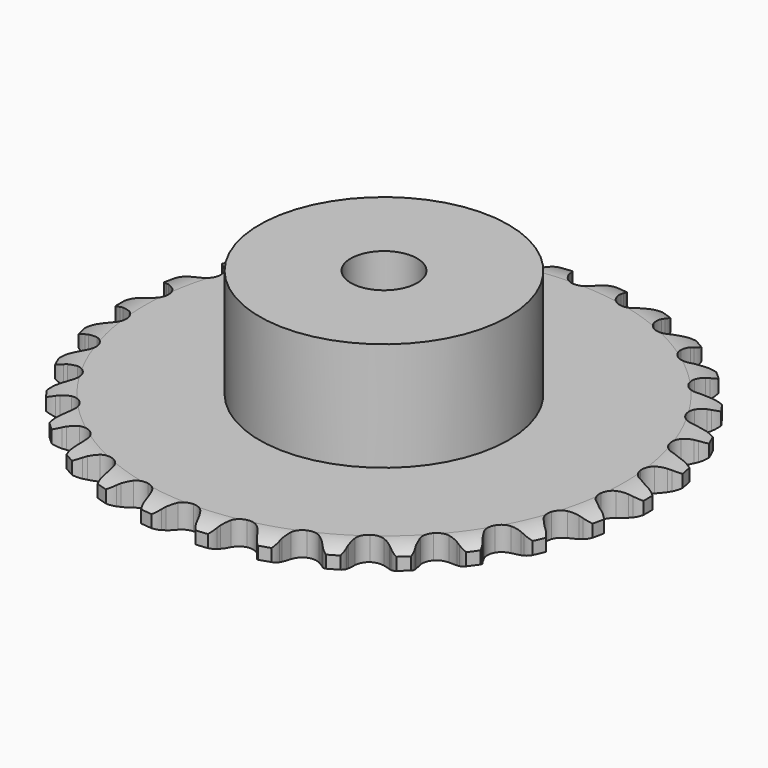
from build123d import *

# Parameters (mm, degrees)
PAD_DEPTH         = 2.9
SKETCH001_R       = 15
PAD001_DEPTH      = 16
SKETCH002_R       = 4
POCKET_DEPTH      = 0.001
POCKET_DEPTH_BACK = 16.001


with BuildPart() as part:
    # Sprocket → Pad (new body)
    with BuildSketch(Plane.XY):
        with BuildLine():
            ThreePointArc((-3.391675, 32.269632), (-2.614696, 31.675396), (-2.104457, 30.840849))
            Line((-2.104457, 30.840849), (-1.943539, 30.41871))
            ThreePointArc((-1.943539, 30.41871), (-1.686703, 29.865404), (-1.354765, 29.353613))
            ThreePointArc((-1.354765, 29.353613), (-0.756908, 28.85638), (0, 28.678152))
            ThreePointArc((0, 28.678152), (0.756908, 28.85638), (1.354765, 29.353613))
            ThreePointArc((1.354765, 29.353613), (1.686703, 29.865404), (1.943539, 30.41871))
            Line((1.943539, 30.41871), (2.104457, 30.840849))
            ThreePointArc((2.104457, 30.840849), (2.614696, 31.675396), (3.391675, 32.269632))
            ThreePointArc((3.391675, 32.269632), (4.028126, 31.526838), (4.353703, 30.604443))
            Line((4.353703, 30.604443), (4.423337, 30.158072))
            ThreePointArc((4.423337, 30.158072), (4.559522, 29.563458), (4.777799, 28.993838))
            ThreePointArc((4.777799, 28.993838), (5.259211, 28.383169), (5.962523, 28.051465))
            ThreePointArc((5.962523, 28.051465), (6.739946, 28.068429), (7.42812, 28.430495))
            Line((7.42812, 28.430495), (8.225473, 29.349903))
            ThreePointArc((8.225473, 29.349903), (8.343113, 29.542827), (8.470643, 29.729361))
            ThreePointArc((8.470643, 29.729361), (9.143244, 30.439586), (10.026792, 30.859294))
            ThreePointArc((10.026792, 30.859294), (10.4949, 30.000407), (10.621586, 29.030477))
            Line((10.621586, 29.030477), (10.596893, 28.579383))
            ThreePointArc((10.596893, 28.579383), (10.606474, 27.969448), (10.70155, 27.366892))
            ThreePointArc((10.70155, 27.366892), (11.045478, 26.669477), (11.664455, 26.198795))
            ThreePointArc((11.664455, 26.198795), (12.428417, 26.053753), (13.17683, 26.264827))
            Line((13.17683, 26.264827), (14.147915, 26.998366))
            ThreePointArc((14.147915, 26.998366), (14.303095, 27.162615), (14.46662, 27.318557))
            ThreePointArc((14.46662, 27.318557), (15.272188, 27.873421), (16.223691, 28.100257))
            ThreePointArc((16.223691, 28.100257), (16.502997, 27.162813), (16.425255, 26.187739))
            Line((16.425255, 26.187739), (16.307313, 25.751637))
            ThreePointArc((16.307313, 25.751637), (16.189872, 25.153038), (16.157593, 24.543883))
            ThreePointArc((16.157593, 24.543883), (16.349003, 23.790201), (16.856595, 23.201112))
            ThreePointArc((16.856595, 23.201112), (17.573706, 22.900403), (18.349649, 22.951261))
            Line((18.349649, 22.951261), (19.452025, 23.466869))
            ThreePointArc((19.452025, 23.466869), (19.637963, 23.595266), (19.830337, 23.713802))
            ThreePointArc((19.830337, 23.713802), (20.733664, 24.089053), (21.711536, 24.113104))
            ThreePointArc((21.711536, 24.113104), (21.789833, 23.138075), (21.511061, 22.200472))
            Line((21.511061, 22.200472), (21.305025, 21.798421))
            ThreePointArc((21.305025, 21.798421), (21.065696, 21.23732), (20.907471, 20.648188))
            ThreePointArc((20.907471, 20.648188), (20.937999, 19.871179), (21.31202, 19.189429))
            ThreePointArc((21.31202, 19.189429), (21.95094, 18.746195), (22.720501, 18.634614))
            Line((22.720501, 18.634614), (23.905988, 18.909759))
            ThreePointArc((23.905988, 18.909759), (24.114558, 18.99669), (24.327374, 19.072639))
            ThreePointArc((24.327374, 19.072639), (25.28898, 19.251879), (26.250483, 19.072093))
            ThreePointArc((26.250483, 19.072093), (26.124349, 18.102091), (25.65673, 17.242938))
            Line((25.65673, 17.242938), (25.371606, 16.892509))
            ThreePointArc((25.371606, 16.892509), (25.020847, 16.393429), (24.743592, 15.850068))
            ThreePointArc((24.743592, 15.850068), (24.611904, 15.083691), (24.836008, 14.339076))
            ThreePointArc((24.836008, 14.339076), (25.368812, 13.772689), (26.098357, 13.503545))
            Line((26.098357, 13.503545), (27.315145, 13.526201))
            ThreePointArc((27.315145, 13.526201), (27.537231, 13.567869), (27.761187, 13.597911))
            ThreePointArc((27.761187, 13.597911), (28.739045, 13.573304), (29.642158, 13.197539))
            ThreePointArc((29.642158, 13.197539), (29.317106, 12.274959), (28.681077, 11.531804))
            Line((28.681077, 11.531804), (28.329325, 11.248314))
            ThreePointArc((28.329325, 11.248314), (27.882467, 10.833067), (27.498299, 10.359224))
            ThreePointArc((27.498299, 10.359224), (27.210151, 9.636974), (27.274543, 8.862036))
            ThreePointArc((27.274543, 8.862036), (27.677946, 8.19725), (28.33559, 7.782307))
            Line((28.33559, 7.782307), (29.530499, 7.551483))
            ThreePointArc((29.530499, 7.551483), (29.756395, 7.546066), (29.981703, 7.528889))
            ThreePointArc((29.981703, 7.528889), (30.933077, 7.301512), (31.738329, 6.74619))
            ThreePointArc((31.738329, 6.74619), (31.228564, 5.911353), (30.451924, 5.316675))
            Line((30.451924, 5.316675), (30.048918, 5.112513))
            ThreePointArc((30.048918, 5.112513), (29.525489, 4.799248), (29.051199, 4.415632))
            ThreePointArc((29.051199, 4.415632), (28.619183, 3.769074), (28.52105, 2.997683))
            ThreePointArc((28.52105, 2.997683), (28.77742, 2.263552), (29.334422, 1.720944))
            Line((29.334422, 1.720944), (30.455228, 1.246729))
            ThreePointArc((30.455228, 1.246729), (30.675062, 1.194464), (30.891875, 1.130818))
            ThreePointArc((30.891875, 1.130818), (31.775185, 0.710608), (32.447382, 0))
            ThreePointArc((32.447382, 0), (31.775185, -0.710608), (30.891875, -1.130818))
            Line((30.891875, -1.130818), (30.455228, -1.246729))
            ThreePointArc((30.455228, -1.246729), (29.878106, -1.444322), (29.334422, -1.720944))
            ThreePointArc((29.334422, -1.720944), (28.77742, -2.263552), (28.52105, -2.997683))
            ThreePointArc((28.52105, -2.997683), (28.619183, -3.769074), (29.051199, -4.415632))
            Line((29.051199, -4.415632), (30.048918, -5.112513))
            ThreePointArc((30.048918, -5.112513), (30.253081, -5.209342), (30.451924, -5.316675))
            ThreePointArc((30.451924, -5.316675), (31.228564, -5.911353), (31.738329, -6.74619))
            ThreePointArc((31.738329, -6.74619), (30.933077, -7.301512), (29.981703, -7.528889))
            Line((29.981703, -7.528889), (29.530499, -7.551483))
            ThreePointArc((29.530499, -7.551483), (28.924907, -7.624767), (28.33559, -7.782307))
            ThreePointArc((28.33559, -7.782307), (27.677946, -8.19725), (27.274543, -8.862036))
            ThreePointArc((27.274543, -8.862036), (27.210151, -9.636974), (27.498299, -10.359224))
            Line((27.498299, -10.359224), (28.329325, -11.248314))
            ThreePointArc((28.329325, -11.248314), (28.508896, -11.385475), (28.681077, -11.531804))
            ThreePointArc((28.681077, -11.531804), (29.317106, -12.274959), (29.642158, -13.197539))
            ThreePointArc((29.642158, -13.197539), (28.739045, -13.573304), (27.761187, -13.597911))
            Line((27.761187, -13.597911), (27.315145, -13.526201))
            ThreePointArc((27.315145, -13.526201), (26.70755, -13.471974), (26.098357, -13.503545))
            ThreePointArc((26.098357, -13.503545), (25.368812, -13.772689), (24.836008, -14.339076))
            ThreePointArc((24.836008, -14.339076), (24.611904, -15.083691), (24.743592, -15.850068))
            Line((24.743592, -15.850068), (25.371606, -16.892509))
            ThreePointArc((25.371606, -16.892509), (25.518735, -17.064008), (25.65673, -17.242938))
            ThreePointArc((25.65673, -17.242938), (26.124349, -18.102091), (26.250483, -19.072093))
            ThreePointArc((26.250483, -19.072093), (25.28898, -19.251879), (24.327374, -19.072639))
            Line((24.327374, -19.072639), (23.905988, -18.909759))
            ThreePointArc((23.905988, -18.909759), (23.322945, -18.730391), (22.720501, -18.634614))
            ThreePointArc((22.720501, -18.634614), (21.95094, -18.746195), (21.31202, -19.189429))
            ThreePointArc((21.31202, -19.189429), (20.937999, -19.871179), (20.907471, -20.648188))
            Line((20.907471, -20.648188), (21.305025, -21.798421))
            ThreePointArc((21.305025, -21.798421), (21.413282, -21.996761), (21.511061, -22.200472))
            ThreePointArc((21.511061, -22.200472), (21.789833, -23.138075), (21.711536, -24.113104))
            ThreePointArc((21.711536, -24.113104), (20.733664, -24.089053), (19.830337, -23.713802))
            Line((19.830337, -23.713802), (19.452025, -23.466869))
            ThreePointArc((19.452025, -23.466869), (18.919015, -23.1702), (18.349649, -22.951261))
            ThreePointArc((18.349649, -22.951261), (17.573706, -22.900403), (16.856595, -23.201112))
            ThreePointArc((16.856595, -23.201112), (16.349003, -23.790201), (16.157593, -24.543883))
            Line((16.157593, -24.543883), (16.307313, -25.751637))
            ThreePointArc((16.307313, -25.751637), (16.371967, -25.968151), (16.425255, -26.187739))
            ThreePointArc((16.425255, -26.187739), (16.502997, -27.162813), (16.223691, -28.100257))
            ThreePointArc((16.223691, -28.100257), (15.272188, -27.873421), (14.46662, -27.318557))
            Line((14.46662, -27.318557), (14.147915, -26.998366))
            ThreePointArc((14.147915, -26.998366), (13.688234, -26.59736), (13.17683, -26.264827))
            ThreePointArc((13.17683, -26.264827), (12.428417, -26.053753), (11.664455, -26.198795))
            ThreePointArc((11.664455, -26.198795), (11.045478, -26.669477), (10.70155, -27.366892))
            Line((10.70155, -27.366892), (10.596893, -28.579383))
            ThreePointArc((10.596893, -28.579383), (10.615118, -28.804608), (10.621586, -29.030477))
            ThreePointArc((10.621586, -29.030477), (10.4949, -30.000407), (10.026792, -30.859294))
            ThreePointArc((10.026792, -30.859294), (9.143244, -30.439586), (8.470643, -29.729361))
            Line((8.470643, -29.729361), (8.225473, -29.349903))
            ThreePointArc((8.225473, -29.349903), (7.859211, -28.862088), (7.42812, -28.430495))
            ThreePointArc((7.42812, -28.430495), (6.739946, -28.068429), (5.962523, -28.051465))
            ThreePointArc((5.962523, -28.051465), (5.259211, -28.383169), (4.777799, -28.993838))
            Line((4.777799, -28.993838), (4.423337, -30.158072))
            ThreePointArc((4.423337, -30.158072), (4.394337, -30.382165), (4.353703, -30.604443))
            ThreePointArc((4.353703, -30.604443), (4.028126, -31.526838), (3.391675, -32.269632))
            ThreePointArc((3.391675, -32.269632), (2.614696, -31.675396), (2.104457, -30.840849))
            Line((2.104457, -30.840849), (1.943539, -30.41871))
            ThreePointArc((1.943539, -30.41871), (1.686703, -29.865404), (1.354765, -29.353613))
            ThreePointArc((1.354765, -29.353613), (0.756908, -28.85638), (0, -28.678152))
            ThreePointArc((0, -28.678152), (-0.756908, -28.85638), (-1.354765, -29.353613))
            Line((-1.354765, -29.353613), (-1.943539, -30.41871))
            ThreePointArc((-1.943539, -30.41871), (-2.018497, -30.631876), (-2.104457, -30.840849))
            ThreePointArc((-2.104457, -30.840849), (-2.614696, -31.675396), (-3.391675, -32.269632))
            ThreePointArc((-3.391675, -32.269632), (-4.028126, -31.526838), (-4.353703, -30.604443))
            Line((-4.353703, -30.604443), (-4.423337, -30.158072))
            ThreePointArc((-4.423337, -30.158072), (-4.559522, -29.563458), (-4.777799, -28.993838))
            ThreePointArc((-4.777799, -28.993838), (-5.259211, -28.383169), (-5.962523, -28.051465))
            ThreePointArc((-5.962523, -28.051465), (-6.739946, -28.068429), (-7.42812, -28.430495))
            Line((-7.42812, -28.430495), (-8.225473, -29.349903))
            ThreePointArc((-8.225473, -29.349903), (-8.343113, -29.542827), (-8.470643, -29.729361))
            ThreePointArc((-8.470643, -29.729361), (-9.143244, -30.439586), (-10.026792, -30.859294))
            ThreePointArc((-10.026792, -30.859294), (-10.4949, -30.000407), (-10.621586, -29.030477))
            Line((-10.621586, -29.030477), (-10.596893, -28.579383))
            ThreePointArc((-10.596893, -28.579383), (-10.606474, -27.969448), (-10.70155, -27.366892))
            ThreePointArc((-10.70155, -27.366892), (-11.045478, -26.669477), (-11.664455, -26.198795))
            ThreePointArc((-11.664455, -26.198795), (-12.428417, -26.053753), (-13.17683, -26.264827))
            Line((-13.17683, -26.264827), (-14.147915, -26.998366))
            ThreePointArc((-14.147915, -26.998366), (-14.303095, -27.162615), (-14.46662, -27.318557))
            ThreePointArc((-14.46662, -27.318557), (-15.272188, -27.873421), (-16.223691, -28.100257))
            ThreePointArc((-16.223691, -28.100257), (-16.502997, -27.162813), (-16.425255, -26.187739))
            Line((-16.425255, -26.187739), (-16.307313, -25.751637))
            ThreePointArc((-16.307313, -25.751637), (-16.189872, -25.153038), (-16.157593, -24.543883))
            ThreePointArc((-16.157593, -24.543883), (-16.349003, -23.790201), (-16.856595, -23.201112))
            ThreePointArc((-16.856595, -23.201112), (-17.573706, -22.900403), (-18.349649, -22.951261))
            Line((-18.349649, -22.951261), (-19.452025, -23.466869))
            ThreePointArc((-19.452025, -23.466869), (-19.637963, -23.595266), (-19.830337, -23.713802))
            ThreePointArc((-19.830337, -23.713802), (-20.733664, -24.089053), (-21.711536, -24.113104))
            ThreePointArc((-21.711536, -24.113104), (-21.789833, -23.138075), (-21.511061, -22.200472))
            Line((-21.511061, -22.200472), (-21.305025, -21.798421))
            ThreePointArc((-21.305025, -21.798421), (-21.065696, -21.23732), (-20.907471, -20.648188))
            ThreePointArc((-20.907471, -20.648188), (-20.937999, -19.871179), (-21.31202, -19.189429))
            ThreePointArc((-21.31202, -19.189429), (-21.95094, -18.746195), (-22.720501, -18.634614))
            Line((-22.720501, -18.634614), (-23.905988, -18.909759))
            ThreePointArc((-23.905988, -18.909759), (-24.114558, -18.99669), (-24.327374, -19.072639))
            ThreePointArc((-24.327374, -19.072639), (-25.28898, -19.251879), (-26.250483, -19.072093))
            ThreePointArc((-26.250483, -19.072093), (-26.124349, -18.102091), (-25.65673, -17.242938))
            Line((-25.65673, -17.242938), (-25.371606, -16.892509))
            ThreePointArc((-25.371606, -16.892509), (-25.020847, -16.393429), (-24.743592, -15.850068))
            ThreePointArc((-24.743592, -15.850068), (-24.611904, -15.083691), (-24.836008, -14.339076))
            ThreePointArc((-24.836008, -14.339076), (-25.368812, -13.772689), (-26.098357, -13.503545))
            Line((-26.098357, -13.503545), (-27.315145, -13.526201))
            ThreePointArc((-27.315145, -13.526201), (-27.537231, -13.567869), (-27.761187, -13.597911))
            ThreePointArc((-27.761187, -13.597911), (-28.739045, -13.573304), (-29.642158, -13.197539))
            ThreePointArc((-29.642158, -13.197539), (-29.317106, -12.274959), (-28.681077, -11.531804))
            Line((-28.681077, -11.531804), (-28.329325, -11.248314))
            ThreePointArc((-28.329325, -11.248314), (-27.882467, -10.833067), (-27.498299, -10.359224))
            ThreePointArc((-27.498299, -10.359224), (-27.210151, -9.636974), (-27.274543, -8.862036))
            ThreePointArc((-27.274543, -8.862036), (-27.677946, -8.19725), (-28.33559, -7.782307))
            Line((-28.33559, -7.782307), (-29.530499, -7.551483))
            ThreePointArc((-29.530499, -7.551483), (-29.756395, -7.546066), (-29.981703, -7.528889))
            ThreePointArc((-29.981703, -7.528889), (-30.933077, -7.301512), (-31.738329, -6.74619))
            ThreePointArc((-31.738329, -6.74619), (-31.228564, -5.911353), (-30.451924, -5.316675))
            Line((-30.451924, -5.316675), (-30.048918, -5.112513))
            ThreePointArc((-30.048918, -5.112513), (-29.525489, -4.799248), (-29.051199, -4.415632))
            ThreePointArc((-29.051199, -4.415632), (-28.619183, -3.769074), (-28.52105, -2.997683))
            ThreePointArc((-28.52105, -2.997683), (-28.77742, -2.263552), (-29.334422, -1.720944))
            Line((-29.334422, -1.720944), (-30.455228, -1.246729))
            ThreePointArc((-30.455228, -1.246729), (-30.675062, -1.194464), (-30.891875, -1.130818))
            ThreePointArc((-30.891875, -1.130818), (-31.775185, -0.710608), (-32.447382, 0))
            ThreePointArc((-32.447382, 0), (-31.775185, 0.710608), (-30.891875, 1.130818))
            Line((-30.891875, 1.130818), (-30.455228, 1.246729))
            ThreePointArc((-30.455228, 1.246729), (-29.878106, 1.444322), (-29.334422, 1.720944))
            ThreePointArc((-29.334422, 1.720944), (-28.77742, 2.263552), (-28.52105, 2.997683))
            ThreePointArc((-28.52105, 2.997683), (-28.619183, 3.769074), (-29.051199, 4.415632))
            Line((-29.051199, 4.415632), (-30.048918, 5.112513))
            ThreePointArc((-30.048918, 5.112513), (-30.253081, 5.209342), (-30.451924, 5.316675))
            ThreePointArc((-30.451924, 5.316675), (-31.228564, 5.911353), (-31.738329, 6.74619))
            ThreePointArc((-31.738329, 6.74619), (-30.933077, 7.301512), (-29.981703, 7.528889))
            Line((-29.981703, 7.528889), (-29.530499, 7.551483))
            ThreePointArc((-29.530499, 7.551483), (-28.924907, 7.624767), (-28.33559, 7.782307))
            ThreePointArc((-28.33559, 7.782307), (-27.677946, 8.19725), (-27.274543, 8.862036))
            ThreePointArc((-27.274543, 8.862036), (-27.210151, 9.636974), (-27.498299, 10.359224))
            Line((-27.498299, 10.359224), (-28.329325, 11.248314))
            ThreePointArc((-28.329325, 11.248314), (-28.508896, 11.385475), (-28.681077, 11.531804))
            ThreePointArc((-28.681077, 11.531804), (-29.317106, 12.274959), (-29.642158, 13.197539))
            ThreePointArc((-29.642158, 13.197539), (-28.739045, 13.573304), (-27.761187, 13.597911))
            Line((-27.761187, 13.597911), (-27.315145, 13.526201))
            ThreePointArc((-27.315145, 13.526201), (-26.70755, 13.471974), (-26.098357, 13.503545))
            ThreePointArc((-26.098357, 13.503545), (-25.368812, 13.772689), (-24.836008, 14.339076))
            ThreePointArc((-24.836008, 14.339076), (-24.611904, 15.083691), (-24.743592, 15.850068))
            Line((-24.743592, 15.850068), (-25.371606, 16.892509))
            ThreePointArc((-25.371606, 16.892509), (-25.518735, 17.064008), (-25.65673, 17.242938))
            ThreePointArc((-25.65673, 17.242938), (-26.124349, 18.102091), (-26.250483, 19.072093))
            ThreePointArc((-26.250483, 19.072093), (-25.28898, 19.251879), (-24.327374, 19.072639))
            Line((-24.327374, 19.072639), (-23.905988, 18.909759))
            ThreePointArc((-23.905988, 18.909759), (-23.322945, 18.730391), (-22.720501, 18.634614))
            ThreePointArc((-22.720501, 18.634614), (-21.95094, 18.746195), (-21.31202, 19.189429))
            ThreePointArc((-21.31202, 19.189429), (-20.937999, 19.871179), (-20.907471, 20.648188))
            Line((-20.907471, 20.648188), (-21.305025, 21.798421))
            ThreePointArc((-21.305025, 21.798421), (-21.413282, 21.996761), (-21.511061, 22.200472))
            ThreePointArc((-21.511061, 22.200472), (-21.789833, 23.138075), (-21.711536, 24.113104))
            ThreePointArc((-21.711536, 24.113104), (-20.733664, 24.089053), (-19.830337, 23.713802))
            Line((-19.830337, 23.713802), (-19.452025, 23.466869))
            ThreePointArc((-19.452025, 23.466869), (-18.919015, 23.1702), (-18.349649, 22.951261))
            ThreePointArc((-18.349649, 22.951261), (-17.573706, 22.900403), (-16.856595, 23.201112))
            ThreePointArc((-16.856595, 23.201112), (-16.349003, 23.790201), (-16.157593, 24.543883))
            Line((-16.157593, 24.543883), (-16.307313, 25.751637))
            ThreePointArc((-16.307313, 25.751637), (-16.371967, 25.968151), (-16.425255, 26.187739))
            ThreePointArc((-16.425255, 26.187739), (-16.502997, 27.162813), (-16.223691, 28.100257))
            ThreePointArc((-16.223691, 28.100257), (-15.272188, 27.873421), (-14.46662, 27.318557))
            Line((-14.46662, 27.318557), (-14.147915, 26.998366))
            ThreePointArc((-14.147915, 26.998366), (-13.688234, 26.59736), (-13.17683, 26.264827))
            ThreePointArc((-13.17683, 26.264827), (-12.428417, 26.053753), (-11.664455, 26.198795))
            ThreePointArc((-11.664455, 26.198795), (-11.045478, 26.669477), (-10.70155, 27.366892))
            Line((-10.70155, 27.366892), (-10.596893, 28.579383))
            ThreePointArc((-10.596893, 28.579383), (-10.615118, 28.804608), (-10.621586, 29.030477))
            ThreePointArc((-10.621586, 29.030477), (-10.4949, 30.000407), (-10.026792, 30.859294))
            ThreePointArc((-10.026792, 30.859294), (-9.143244, 30.439586), (-8.470643, 29.729361))
            Line((-8.470643, 29.729361), (-8.225473, 29.349903))
            ThreePointArc((-8.225473, 29.349903), (-7.859211, 28.862088), (-7.42812, 28.430495))
            ThreePointArc((-7.42812, 28.430495), (-6.739946, 28.068429), (-5.962523, 28.051465))
            ThreePointArc((-5.962523, 28.051465), (-5.259211, 28.383169), (-4.777799, 28.993838))
            Line((-4.777799, 28.993838), (-4.423337, 30.158072))
            ThreePointArc((-4.423337, 30.158072), (-4.394337, 30.382165), (-4.353703, 30.604443))
            ThreePointArc((-4.353703, 30.604443), (-4.028126, 31.526838), (-3.391675, 32.269632))
        make_face()
    extrude(amount=PAD_DEPTH)

    # Sketch → Groove (revolve, cut)
    with BuildSketch(Plane.XZ):
        with BuildLine():
            Line((28.889674, 0), (31.8, 0))
            Line((34.710326, 0), (31.8, 0))
            Line((34.710326, 2.9), (34.710326, 0))
            Line((31.8, 2.9), (34.710326, 2.9))
            Line((28.889674, 2.9), (31.8, 2.9))
            ThreePointArc((31.8, 2.2), (30.386337, 2.72254), (28.889674, 2.9))
            Line((31.8, 0.7), (31.8, 2.2))
            ThreePointArc((28.889674, 0), (30.386337, 0.17746), (31.8, 0.7))
        make_face()
    revolve(axis=Axis((0, 0, 0), (0, 0, 1)), mode=Mode.SUBTRACT)

    # Sketch001 → Pad001 (join)
    with BuildSketch(Plane.XY):
        Circle(SKETCH001_R)
    extrude(amount=PAD001_DEPTH)

    # Sketch002 → Pocket (cut, two sides)
    with BuildSketch(Plane.XY) as pocket_sk:
        Circle(SKETCH002_R)
    extrude(amount=-POCKET_DEPTH, mode=Mode.SUBTRACT)
    extrude(pocket_sk.sketch, amount=POCKET_DEPTH_BACK, mode=Mode.SUBTRACT)


solid = part.part
